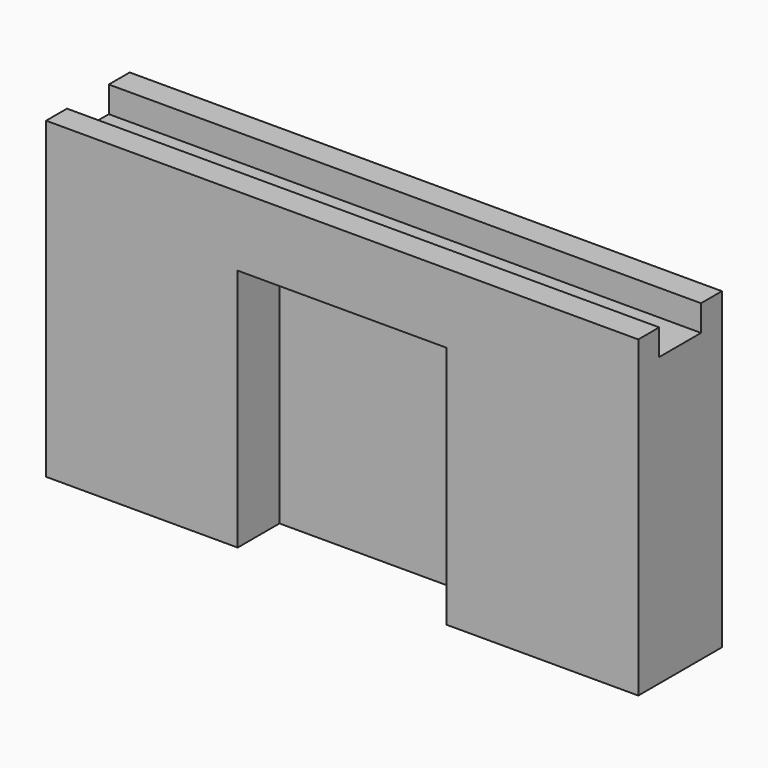
from build123d import *

# Parameters (mm, degrees)
SKETCH_W        = 215.9
SKETCH_H        = 38.1
PAD_DEPTH       = 114.3
SKETCH001_W     = 762
SKETCH001_H     = 19.05
POCKET_DEPTH    = 9.525
SKETCH003_W     = 76.2
SKETCH003_H     = 88.9
POCKET002_DEPTH = 19.05


with BuildPart() as part:
    # Sketch → Pad (new body)
    with BuildSketch(Plane.XY):
        Rectangle(SKETCH_W, SKETCH_H)
    extrude(amount=PAD_DEPTH)

    # Sketch001 (on Face6 of Pad) → Pocket (cut)
    with BuildSketch(Plane.XY.offset(114.3)):
        Rectangle(SKETCH001_W, SKETCH001_H)
    extrude(amount=-POCKET_DEPTH, mode=Mode.SUBTRACT)

    # Sketch003 → Pocket002 (cut)
    with BuildSketch(Plane.XZ.offset(19.05)):
        with Locations((0, 44.45)):
            Rectangle(SKETCH003_W, SKETCH003_H)
    extrude(amount=-POCKET002_DEPTH, mode=Mode.SUBTRACT)


solid = part.part
